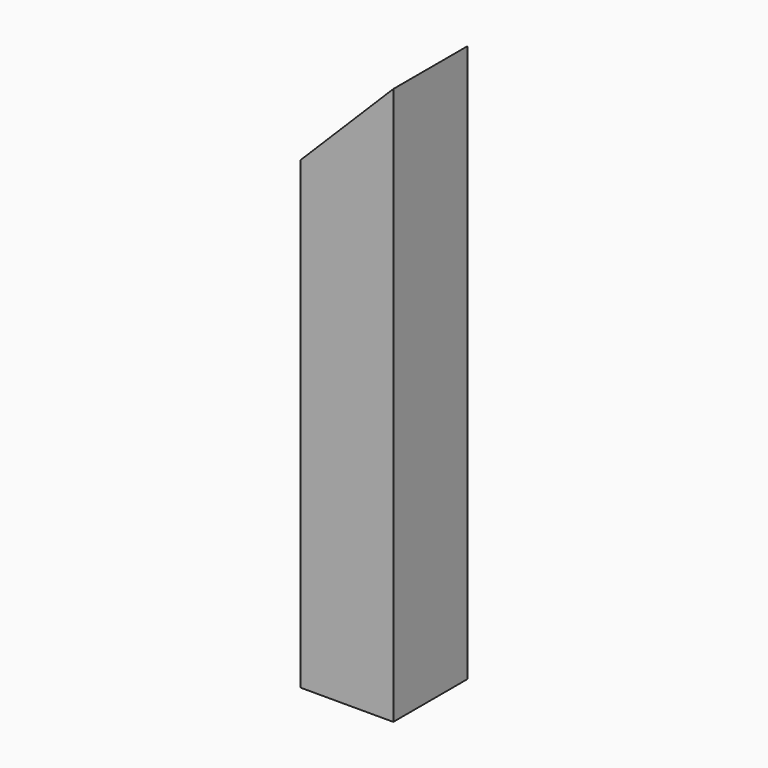
from build123d import *

# Parameters (mm, degrees)
F0_W     = 25.4
F0_H     = 127
F1_DEPTH = 12.7
F4_DEPTH = 12.7
F2_R     = 9.525
F5_DEPTH = 152.401


with BuildPart() as f1:
    # F0 (on Front) → F1 (new body, symmetric)
    with BuildSketch(Plane.XZ):
        with Locations((-3.775233, -0.143904)):
            Rectangle(F0_W, F0_H)
    extrude(amount=F1_DEPTH, both=True)

    # F3 (on Front) → F4 (join, symmetric)
    with BuildSketch(Plane.XZ):
        Polygon((-16.475233, 63.356096), (8.924767, 63.356096), (8.924767, 88.756096), align=None)
    extrude(amount=F4_DEPTH, both=True)

    # F2 (on face) → F5 (cut, through all)
    with BuildSketch(Plane(origin=(0, 0, -63.643904), x_dir=(1, 0, 0), z_dir=(0, 0, -1))):
        with Locations((-3.775233, 0)):
            Circle(F2_R)
    extrude(amount=-F5_DEPTH, mode=Mode.SUBTRACT)


solid = f1.part
